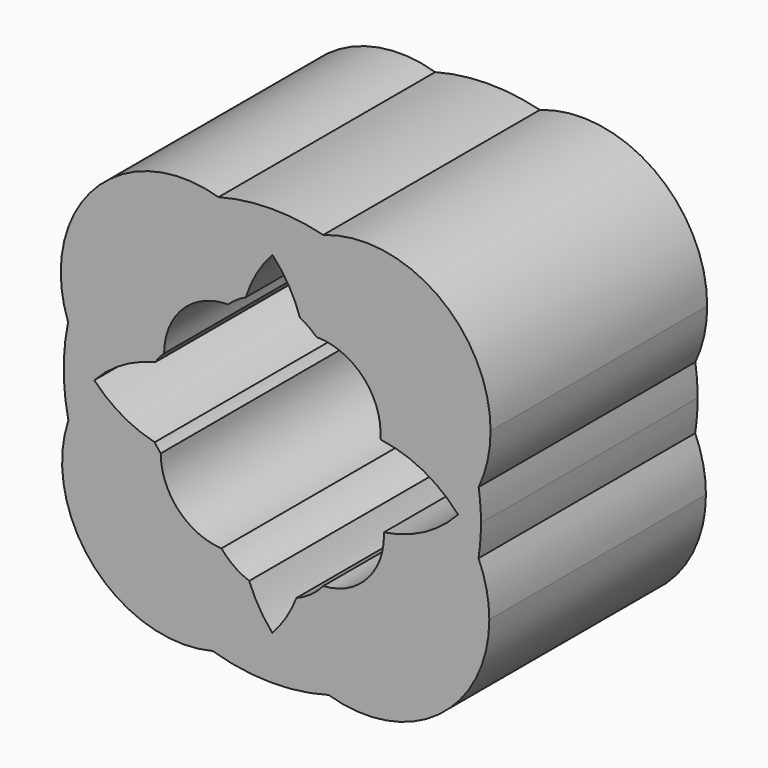
from build123d import *

# Parameters (mm, degrees)
F1_DEPTH = 136.652


with BuildPart() as f1:
    # F0 (on Front) → F1 (new body)
    with BuildSketch(Plane.XZ):
        with BuildLine():
            ThreePointArc((54.527499783, 20.9989734618), (54.7276679048, 20.7850152309), (54.9257769328, 20.5691490349))
            ThreePointArc((54.9257769328, 20.5691490349), (76.1901987299, 13.7983190429), (93.7294736505, 0))
            ThreePointArc((93.7294736505, 0), (99.5048519531, 7.4078439529), (104.1196596047, 15.589206731))
            ThreePointArc((104.1196596047, 15.589206731), (77.9936820742, 70.717129744), (25.6797344721, 102.1003335947))
            ThreePointArc((25.6797344721, 102.1003335947), (11.7801687474, 95.1325271586), (0, 84.9848240614))
            ThreePointArc((0, 84.9848240614), (8.2911620822, 73.9876177792), (13.9425107784, 61.4279930793))
            ThreePointArc((13.9425107784, 61.4279930793), (18.3589234819, 58.8669445911), (22.3165845225, 55.6419500772))
            ThreePointArc((22.3165845225, 55.6419500772), (45.1535066394, 46.1825872135), (54.6128695031, 23.3456650966))
            ThreePointArc((54.6128695031, 23.3456650966), (54.5915200165, 22.1715431248), (54.527499783, 20.9989734618))
        make_face()
        with BuildLine():
            ThreePointArc((93.7294736505, 0), (76.7382859544, -13.2702968374), (56.2774381887, -20.0640400021))
            ThreePointArc((56.2774381887, -20.0640400021), (56.3045635593, -20.8278500085), (56.3136070377, -21.5920880129))
            ThreePointArc((56.3136070377, -21.5920880129), (47.4391029946, -43.8287739455), (25.6927352215, -53.8448865624))
            ThreePointArc((25.6927352215, -53.8448865624), (19.5331456536, -59.5527538305), (12.1485373896, -63.5512351899))
            ThreePointArc((12.1485373896, -63.5512351899), (6.9976805403, -73.8751515766), (0, -83.0483213067))
            ThreePointArc((0, -83.0483213067), (12.9593131443, -94.1642757812), (28.4396211824, -101.3662410752))
            ThreePointArc((28.4396211824, -101.3662410752), (78.7986877851, -69.8190066246), (104.0530293111, -16.027912337))
            ThreePointArc((104.0530293111, -16.027912337), (99.5048519531, -7.6187369724), (93.7294736505, 0))
        make_face()
        with BuildLine():
            ThreePointArc((104.1196596047, 15.589206731), (99.5048519531, 7.4078439529), (93.7294736505, 0))
            ThreePointArc((93.7294736505, 0), (99.5048519531, -7.6187369724), (104.0530293111, -16.027912337))
            ThreePointArc((104.0530293111, -16.027912337), (104.9729816843, -8.0374124574), (105.2802302558, 0))
            ThreePointArc((105.2802302558, 0), (104.9896866841, 7.816173788), (104.1196596047, 15.589206731))
        make_face()
        with BuildLine():
            ThreePointArc((109.4791079844, -41.5241606534), (108.1075668029, -28.4905405885), (104.0530293111, -16.027912337))
            ThreePointArc((104.0530293111, -16.027912337), (78.7986877851, -69.8190066246), (28.4396211824, -101.3662410752))
            ThreePointArc((28.4396211824, -101.3662410752), (84.0593765341, -91.8939755487), (109.4791079844, -41.5241606534))
        make_face()
        with BuildLine():
            ThreePointArc((25.6797344721, 102.1003335947), (77.9936820742, 70.717129744), (104.1196596047, 15.589206731))
            ThreePointArc((104.1196596047, 15.589206731), (108.6056945653, 28.7097136295), (110.1253773364, 42.4924120307))
            ThreePointArc((110.1253773364, 42.4924120307), (83.3457717598, 94.174543643), (25.6797344721, 102.1003335947))
        make_face()
        with BuildLine():
            ThreePointArc((-56.3136070377, -21.5920880129), (-57.9095553347, -19.6725800372), (-59.3524805988, -17.6355408825))
            ThreePointArc((-59.3524805988, -17.6355408825), (-75.8807124036, -11.0348961584), (-89.8443087935, 0))
            ThreePointArc((-89.8443087935, 0), (-97.5622695247, -10.3588890688), (-102.9329187465, -22.1074901568))
            ThreePointArc((-102.9329187465, -22.1074901568), (-77.3108882291, -71.4629515478), (-30.118879838, -100.8800275576))
            ThreePointArc((-30.118879838, -100.8800275576), (-13.7568828123, -94.1642757812), (0, -83.0483213067))
            ThreePointArc((0, -83.0483213067), (-6.7178829074, -73.9195667822), (-11.6800359007, -63.7293191111))
            ThreePointArc((-11.6800359007, -63.7293191111), (-19.3289034102, -59.6979704443), (-25.6927352215, -53.8448865624))
            ThreePointArc((-25.6927352215, -53.8448865624), (-47.4391029946, -43.8287739455), (-56.3136070377, -21.5920880129))
        make_face()
        with BuildLine():
            ThreePointArc((-30.118879838, -100.8800275576), (-0.874115727, -105.2766014098), (28.4396211824, -101.3662410752))
            ThreePointArc((28.4396211824, -101.3662410752), (12.9593131443, -94.1642757812), (0, -83.0483213067))
            ThreePointArc((0, -83.0483213067), (-13.7568828123, -94.1642757812), (-30.118879838, -100.8800275576))
        make_face()
        with BuildLine():
            ThreePointArc((0, 84.9848240614), (11.7801687474, 95.1325271586), (25.6797344721, 102.1003335947))
            ThreePointArc((25.6797344721, 102.1003335947), (-0.7599031291, 105.2774877642), (-27.1509221895, 101.7189967851))
            ThreePointArc((-27.1509221895, 101.7189967851), (-12.4779975244, 95.1325271586), (0, 84.9848240614))
        make_face()
        with BuildLine():
            ThreePointArc((-102.9329187465, -22.1074901568), (-97.5622695247, -10.3588890688), (-89.8443087935, 0))
            ThreePointArc((-89.8443087935, 0), (-97.5622695247, 10.0482551584), (-103.0701310001, 21.4586807219))
            ThreePointArc((-103.0701310001, 21.4586807219), (-105.2797080994, -0.3315798868), (-102.9329187465, -22.1074901568))
        make_face()
        with BuildLine():
            ThreePointArc((-103.0701310001, 21.4586807219), (-97.5622695247, 10.0482551584), (-89.8443087935, 0))
            ThreePointArc((-89.8443087935, 0), (-75.8216360442, 11.2724103293), (-59.1261791661, 17.977953208))
            ThreePointArc((-59.1261791661, 17.977953208), (-57.0156534005, 20.7846782143), (-54.6128695031, 23.3456650966))
            ThreePointArc((-54.6128695031, 23.3456650966), (-45.1535066394, 46.1825872135), (-22.3165845225, 55.6419500772))
            ThreePointArc((-22.3165845225, 55.6419500772), (-18.1199759802, 59.0304671081), (-13.4179508285, 61.6732933224))
            ThreePointArc((-13.4179508285, 61.6732933224), (-7.9622593488, 74.0504399858), (0, 84.9848240614))
            ThreePointArc((0, 84.9848240614), (-12.4779975244, 95.1325271586), (-27.1509221895, 101.7189967851))
            ThreePointArc((-27.1509221895, 101.7189967851), (-76.4840523057, 72.3471950086), (-103.0701310001, 21.4586807219))
        make_face()
        with BuildLine():
            ThreePointArc((-102.9329187465, -22.1074901568), (-89.8443087935, -83.0483213067), (-30.118879838, -100.8800275576))
            ThreePointArc((-30.118879838, -100.8800275576), (-77.3108882291, -71.4629515478), (-102.9329187465, -22.1074901568))
        make_face()
        with BuildLine():
            ThreePointArc((-103.0701310001, 21.4586807219), (-76.4840523057, 72.3471950086), (-27.1509221895, 101.7189967851))
            ThreePointArc((-27.1509221895, 101.7189967851), (-89.8443087935, 84.9848240614), (-103.0701310001, 21.4586807219))
        make_face()
    extrude(amount=F1_DEPTH)


solid = f1.part
